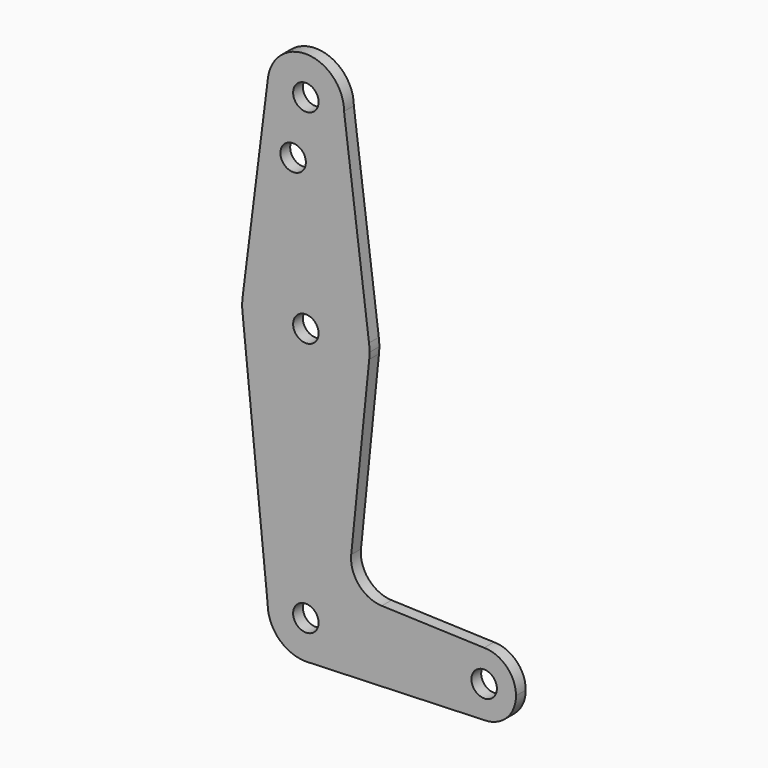
from build123d import *

# Parameters (mm, degrees)
F0_R     = 3.175
F1_DEPTH = 3.048
F2_DEPTH = 3.048


with BuildPart() as f1:
    # F0 (on Front) → F1 (new body)
    with BuildSketch(Plane.XZ):
        with BuildLine():
            ThreePointArc((-9.450293, 115.490625), (-0.596483, 104.793695), (9.525, 114.3))
            ThreePointArc((9.525, 114.3), (0.596483, 123.806305), (-9.450293, 115.490625))
        make_face()
        with Locations((0, 114.3)):
            Circle(F0_R, mode=Mode.SUBTRACT)
        with BuildLine():
            Line((15.747457, 65.508289), (9.525, 114.3))
            ThreePointArc((9.525, 114.3), (-0.596483, 104.793695), (-9.450293, 115.490625))
            Line((-9.450293, 115.490625), (-15.750488, 65.484375))
            ThreePointArc((-15.750488, 65.484375), (-0.012053, 79.374995), (15.747457, 65.508289))
        make_face()
        with Locations((-3.175, 100.0252)):
            Circle(F0_R, mode=Mode.SUBTRACT)
        with BuildLine():
            ThreePointArc((15.875, 63.5), (15.843082, 64.506168), (15.747457, 65.508289))
            ThreePointArc((15.747457, 65.508289), (-0.012053, 79.374995), (-15.750488, 65.484375))
            ThreePointArc((-15.750488, 65.484375), (-15.875, 63.5), (-15.750488, 61.515625))
            ThreePointArc((-15.750488, 61.515625), (0.193615, 47.626181), (15.794203, 61.90038))
            ThreePointArc((15.794203, 61.90038), (15.854788, 62.699171), (15.875, 63.5))
        make_face()
        with Locations((0, 63.5)):
            Circle(F0_R, mode=Mode.SUBTRACT)
        with BuildLine():
            ThreePointArc((15.794203, 61.90038), (0.193615, 47.626181), (-15.750488, 61.515625))
            Line((-15.750488, 61.515625), (-9.525, 0))
            ThreePointArc((-9.525, 0), (0, 9.525), (9.525, 0))
            ThreePointArc((9.525, 0), (6.97129, -6.490511), (0.67949, -9.500732))
            Line((0.67949, -9.500732), (44.45, -7.9375))
            ThreePointArc((44.45, -7.9375), (36.5125, 0), (44.45, 7.9375))
            Line((44.45, 7.9375), (18.932989, 8.848822))
            ThreePointArc((18.932989, 8.848822), (13.224462, 11.569184), (11.307007, 17.595046))
            Line((11.307007, 17.595046), (15.794203, 61.90038))
        make_face()
        with BuildLine():
            ThreePointArc((9.525, 0), (0, 9.525), (-9.525, 0))
            ThreePointArc((-9.525, 0), (-6.735192, -6.735192), (0, -9.525))
            Line((0, -9.525), (0.67949, -9.500732))
            ThreePointArc((0.67949, -9.500732), (6.97129, -6.490511), (9.525, 0))
        make_face()
        Circle(F0_R, mode=Mode.SUBTRACT)
        with BuildLine():
            Line((0.67949, -9.500732), (0, -9.525))
            ThreePointArc((0, -9.525), (0.339962, -9.518931), (0.67949, -9.500732))
        make_face()
        with BuildLine():
            ThreePointArc((52.3875, 0), (50.06266, 5.61266), (44.45, 7.9375))
            ThreePointArc((44.45, 7.9375), (36.5125, 0), (44.45, -7.9375))
            ThreePointArc((44.45, -7.9375), (50.06266, -5.61266), (52.3875, 0))
        make_face()
        with Locations((44.45, 0)):
            Circle(F0_R, mode=Mode.SUBTRACT)
    extrude(amount=F1_DEPTH)

    # F0 (on Front) → F2 (join)
    with BuildSketch(Plane.XZ):
        with BuildLine():
            ThreePointArc((-9.450293, 115.490625), (-0.596483, 104.793695), (9.525, 114.3))
            ThreePointArc((9.525, 114.3), (0.596483, 123.806305), (-9.450293, 115.490625))
        make_face()
        with Locations((0, 114.3)):
            Circle(F0_R, mode=Mode.SUBTRACT)
        with BuildLine():
            Line((15.747457, 65.508289), (9.525, 114.3))
            ThreePointArc((9.525, 114.3), (-0.596483, 104.793695), (-9.450293, 115.490625))
            Line((-9.450293, 115.490625), (-15.750488, 65.484375))
            ThreePointArc((-15.750488, 65.484375), (-0.012053, 79.374995), (15.747457, 65.508289))
        make_face()
        with Locations((-3.175, 100.0252)):
            Circle(F0_R, mode=Mode.SUBTRACT)
        with BuildLine():
            ThreePointArc((15.875, 63.5), (15.843082, 64.506168), (15.747457, 65.508289))
            ThreePointArc((15.747457, 65.508289), (-0.012053, 79.374995), (-15.750488, 65.484375))
            ThreePointArc((-15.750488, 65.484375), (-15.875, 63.5), (-15.750488, 61.515625))
            ThreePointArc((-15.750488, 61.515625), (0.193615, 47.626181), (15.794203, 61.90038))
            ThreePointArc((15.794203, 61.90038), (15.854788, 62.699171), (15.875, 63.5))
        make_face()
        with Locations((0, 63.5)):
            Circle(F0_R, mode=Mode.SUBTRACT)
        with BuildLine():
            ThreePointArc((15.794203, 61.90038), (0.193615, 47.626181), (-15.750488, 61.515625))
            Line((-15.750488, 61.515625), (-9.525, 0))
            ThreePointArc((-9.525, 0), (0, 9.525), (9.525, 0))
            ThreePointArc((9.525, 0), (6.97129, -6.490511), (0.67949, -9.500732))
            Line((0.67949, -9.500732), (44.45, -7.9375))
            ThreePointArc((44.45, -7.9375), (36.5125, 0), (44.45, 7.9375))
            Line((44.45, 7.9375), (18.932989, 8.848822))
            ThreePointArc((18.932989, 8.848822), (13.224462, 11.569184), (11.307007, 17.595046))
            Line((11.307007, 17.595046), (15.794203, 61.90038))
        make_face()
        with BuildLine():
            ThreePointArc((9.525, 0), (0, 9.525), (-9.525, 0))
            ThreePointArc((-9.525, 0), (-6.735192, -6.735192), (0, -9.525))
            Line((0, -9.525), (0.67949, -9.500732))
            ThreePointArc((0.67949, -9.500732), (6.97129, -6.490511), (9.525, 0))
        make_face()
        Circle(F0_R, mode=Mode.SUBTRACT)
        with BuildLine():
            Line((0.67949, -9.500732), (0, -9.525))
            ThreePointArc((0, -9.525), (0.339962, -9.518931), (0.67949, -9.500732))
        make_face()
        with BuildLine():
            ThreePointArc((52.3875, 0), (50.06266, 5.61266), (44.45, 7.9375))
            ThreePointArc((44.45, 7.9375), (36.5125, 0), (44.45, -7.9375))
            ThreePointArc((44.45, -7.9375), (50.06266, -5.61266), (52.3875, 0))
        make_face()
        with Locations((44.45, 0)):
            Circle(F0_R, mode=Mode.SUBTRACT)
    extrude(amount=F2_DEPTH)


solid = f1.part
